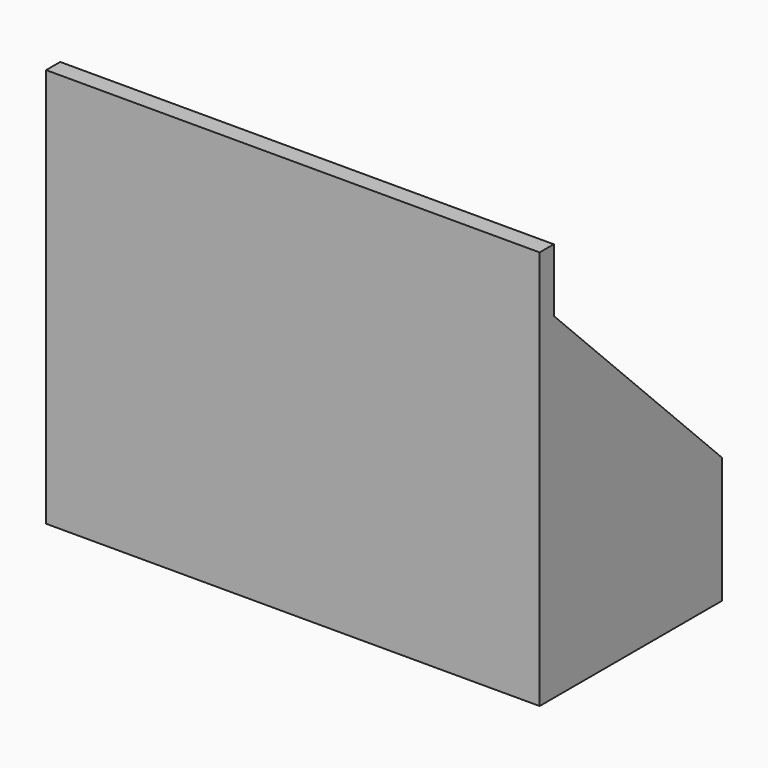
from build123d import *

# Parameters (mm, degrees)
F0_W     = 115
F0_H     = 50
F1_DEPTH = 80
F2_SIZE  = 50
F3_DEPTH = 15
F4_T     = -1.2
F5_DEPTH = 1.8


with BuildPart() as f1:
    # F0 (on Top) → F1 (new body)
    with BuildSketch(Plane.XY):
        Polygon((58.7, -28), (58.7, -25), (58.7, 26.2), (-58.7, 26.2), (-58.7, -25), (-58.7, -28), (-57.5, -28), (57.5, -28), align=None)
        Rectangle(F0_W, F0_H, mode=Mode.SUBTRACT)
        Rectangle(F0_W, F0_H)
    extrude(amount=F1_DEPTH)

    # F2
    f2_edges = [f1.edges().sort_by_distance(p)[0] for p in [
        (0, 26.2, 80),
    ]]
    chamfer(f2_edges, length=F2_SIZE)

    # F3 (add): a face of the model
    f3_faces = [f1.faces().sort_by_distance(p)[0] for p in [
        (0, -25.9, 80),
    ]]
    extrude(f3_faces, amount=F3_DEPTH)

    # F4
    f4_openings = [f1.faces().sort_by_distance(p)[0] for p in [
        (0, -0.9, 0),
    ]]
    offset(amount=F4_T, openings=f4_openings, kind=Kind.INTERSECTION)

    # F5 (add): a face of the model
    f5_faces = [f1.faces().sort_by_distance(p)[0] for p in [
        (0, -26.8, 46.9),
    ]]
    extrude(f5_faces, amount=F5_DEPTH)


solid = f1.part
